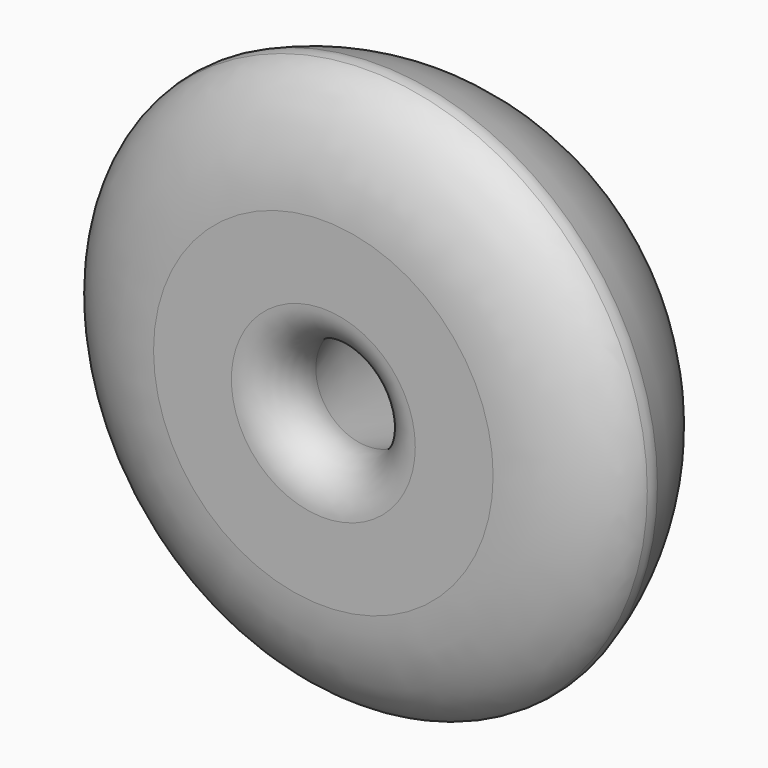
from build123d import *


with BuildPart() as f1:
    # F0 (on Top) → F1 (revolve)
    with BuildSketch(Plane.XY):
        with BuildLine():
            ThreePointArc((3.0633135104, 3.2725424859), (3.4184123152, 1.0305368693), (5.4409548012, 0))
            Line((5.4409548012, 0), (10.047032676, 0))
            add(Edge.make_bspline(
                [(10.047032676, 0), (15.6495332881, 0), (16.551087103, 3.2725424859)],
                knots=[4.2304507978, 4.2304507978, 4.2304507978, 6.0015152151, 6.0015152151, 6.0015152151], degree=2, weights=[1, 0.6328775276, 1]))
            Line((16.551087103, 3.2725424859), (3.0633135104, 3.2725424859))
        make_face()
        with BuildLine():
            Line((5.2008972323, 9.8513487161), (3.0633135104, 3.2725424859))
            Line((3.0633135104, 3.2725424859), (16.551087103, 3.2725424859))
            add(Edge.make_bspline(
                [(16.551087103, 3.2725424859), (16.6579962544, 3.6606111005), (16.5616925878, 4.0102970167)],
                knots=[6.0015152151, 6.0015152151, 6.0015152151, 6.2896505601, 6.2896505601, 6.2896505601], degree=2, weights=[1, 0.9896401901, 1]))
            ThreePointArc((16.5616925878, 4.0102970167), (14.6467845529, 8.2573732905), (11.5286236462, 11.7188183959))
            ThreePointArc((11.5286236462, 11.7188183959), (7.8729018786, 12.4516950356), (5.2008972323, 9.8513487161))
        make_face()
    revolve(axis=Axis((0, 3.47598386, 0), (0, 1, 0)))


solid = f1.part
